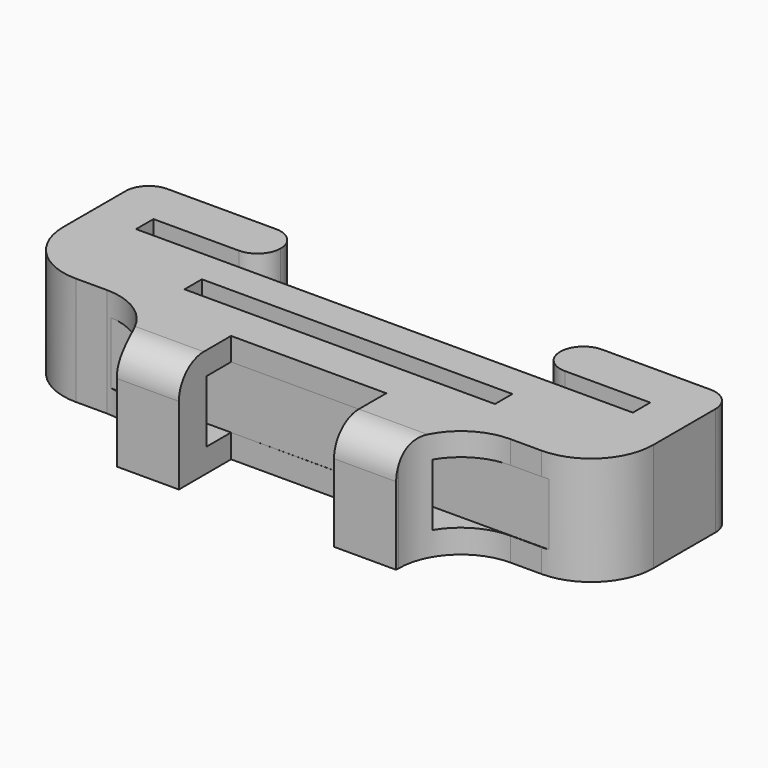
from build123d import *

# Parameters (mm, degrees)
SKETCH_W          = 10
SKETCH_H          = 0.7
PAD_DEPTH         = 3.5
SKETCH001_W       = 1
SKETCH001_H       = 2
POCKET_DEPTH      = 7.003756
POCKET_DEPTH_BACK = 12.007881
FILLET_R          = 1


with BuildPart() as part:
    # Sketch → Pad (new body)
    with BuildSketch(Plane.XY):
        with BuildLine():
            Line((148, 81.55), (148, 82.25))
            Line((148, 82.25), (145.25, 82.25))
            ThreePointArc((144.5, 83), (144.71967, 82.46967), (145.25, 82.25))
            ThreePointArc((145.25, 83.75), (144.71967, 83.53033), (144.5, 83))
            Line((148.75, 83.75), (145.25, 83.75))
            ThreePointArc((149.5, 83), (149.28033, 83.53033), (148.75, 83.75))
            Line((149.5, 80.5), (149.5, 83))
            ThreePointArc((147.5, 78.5), (148.914214, 79.085786), (149.5, 80.5))
            Line((146.5, 78.5), (147.5, 78.5))
            ThreePointArc((146.5, 78.5), (145.085786, 77.914214), (144.5, 76.5))
            Line((144.5, 76.395912), (144.5, 76.5))
            Line((142.5, 76.395912), (144.5, 76.395912))
            Line((142.5, 76.395912), (142.5, 78.5))
            Line((142.5, 78.5), (137.5, 78.5))
            Line((137.5, 78.5), (137.502762, 76.395912))
            Line((135.502762, 76.395912), (137.502762, 76.395912))
            Line((135.5, 76.5), (135.502762, 76.395912))
            ThreePointArc((135.5, 76.5), (134.914214, 77.914214), (133.5, 78.5))
            Line((133.5, 78.5), (132.5, 78.5))
            ThreePointArc((130.5, 80.5), (131.085786, 79.085786), (132.5, 78.5))
            Line((130.5, 83), (130.5, 80.5))
            ThreePointArc((131.25, 83.75), (130.71967, 83.53033), (130.5, 83))
            Line((131.25, 83.75), (134.75, 83.75))
            ThreePointArc((135.5, 83), (135.28033, 83.53033), (134.75, 83.75))
            ThreePointArc((134.75, 82.25), (135.28033, 82.46967), (135.5, 83))
            Line((132, 82.25), (134.75, 82.25))
            Line((132, 82.25), (132, 81.55))
            Line((132, 81.55), (148, 81.55))
        make_face()
        with Locations((140, 80.1)):
            Rectangle(SKETCH_W, SKETCH_H, mode=Mode.SUBTRACT)
    extrude(amount=PAD_DEPTH)

    # Sketch001 (on DatumPlane) → Pocket (cut, two sides)
    with BuildSketch(Plane(origin=(137.602808, 0.180629, 0), x_dir=(-0.001313, 0.999999, 0), z_dir=(0.999999, 0.001313, 0))) as pocket_sk:
        with Locations((77.819439, 1.76189)):
            Rectangle(SKETCH001_W, SKETCH001_H)
    extrude(amount=-POCKET_DEPTH, mode=Mode.SUBTRACT)
    extrude(pocket_sk.sketch, amount=POCKET_DEPTH_BACK, mode=Mode.SUBTRACT)

    # Fillet
    fillet_edges = [part.edges().sort_by_distance(p)[0] for p in [
        (143.5, 76.395912, 3.5),
        (136.502762, 76.395912, 3.5),
    ]]
    fillet(fillet_edges, radius=FILLET_R)


solid = part.part
